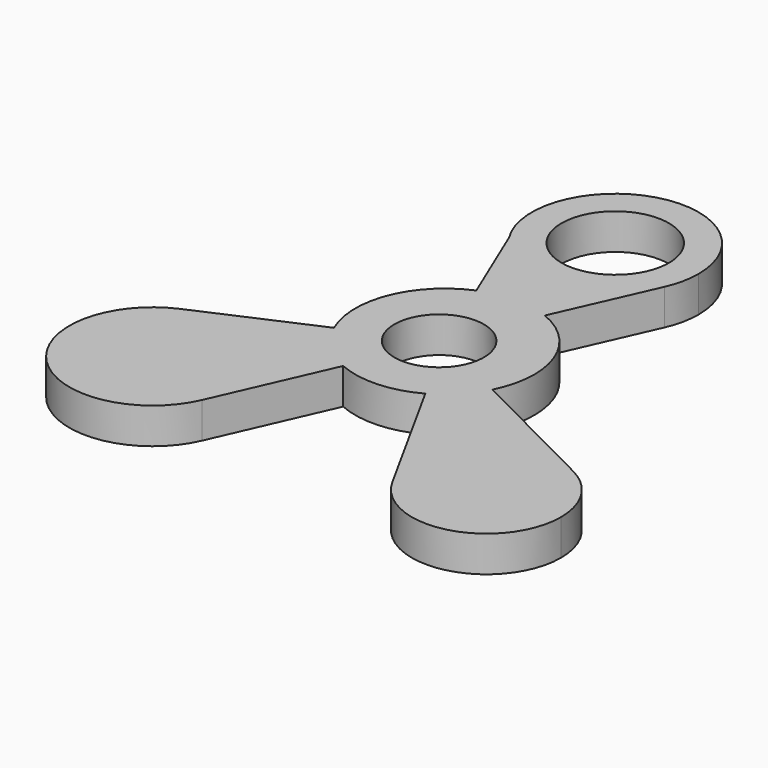
from build123d import *

# Parameters (mm, degrees)
F0_R     = 12.7
F1_DEPTH = 5.08
F3_DEPTH = 5.08
F5_DEPTH = 5.08
F7_DEPTH = 5.08
F8_D     = 15.24
F9_D     = 12.7


with BuildPart() as f1:
    # F0 (on Top) → F1 (new body)
    with BuildSketch(Plane.XY):
        Circle(F0_R)
    extrude(amount=F1_DEPTH)

    # F2 (on Top) → F3 (join)
    with BuildSketch(Plane.XY):
        with BuildLine():
            ThreePointArc((10.8174087007, 25.4269018523), (11.5752623309, 27.7701892875), (11.8315821556, 30.2196051925))
            ThreePointArc((11.8315821556, 30.2196051925), (-3.2728076401, 41.5895245615), (-10.0209587397, 23.9293967507))
            ThreePointArc((-10.0209587397, 23.9293967507), (0.8480645715, 18.4184559779), (10.8174087007, 25.4269018523))
        make_face()
        with BuildLine():
            ThreePointArc((10.8174087007, 25.4269018523), (0.8480645715, 18.4184559779), (-10.0209587397, 23.9293967507))
            Line((-10.0209587397, 23.9293967507), (-0.217736535, 0.5199406632))
            Line((-0.217736535, 0.5199406632), (10.8174087007, 25.4269018523))
        make_face()
    extrude(amount=F3_DEPTH)

    # F4 (on Top) → F5 (join)
    with BuildSketch(Plane.XY):
        with BuildLine():
            ThreePointArc((-12.2244191743, -27.7763577499), (-11.4774353607, -25.4519749313), (-11.2248354851, -23.0236146599))
            ThreePointArc((-11.2248354851, -23.0236146599), (-16.5763429957, -13.1421229656), (-27.7763577499, -12.2244191743))
            ThreePointArc((-27.7763577499, -12.2244191743), (-31.3666114242, -31.3666114242), (-12.2244191743, -27.7763577499))
        make_face()
        with BuildLine():
            ThreePointArc((-27.7763577499, -12.2244191743), (-16.5763429957, -13.1421229656), (-11.2248354851, -23.0236146599))
            ThreePointArc((-11.2248354851, -23.0236146599), (-11.4774353607, -25.4519749313), (-12.2244191743, -27.7763577499))
            Line((-12.2244191743, -27.7763577499), (0, 0))
            Line((0, 0), (-27.7763577499, -12.2244191743))
        make_face()
    extrude(amount=F5_DEPTH)

    # F6 (on Top) → F7 (join)
    with BuildSketch(Plane.XY):
        with BuildLine():
            ThreePointArc((16.5425266567, -29.9826324727), (28.4376217504, -35.1139976634), (36.3737546099, -24.874759838))
            ThreePointArc((36.3737546099, -24.874759838), (34.8057291344, -19.3339934072), (30.5667251163, -15.4366043497))
            ThreePointArc((30.5667251163, -15.4366043497), (18.1885027261, -17.5360015638), (16.5425266567, -29.9826324727))
        make_face()
        with BuildLine():
            ThreePointArc((16.5425266567, -29.9826324727), (18.1885027261, -17.5360015638), (30.5667251163, -15.4366043497))
            Line((30.5667251163, -15.4366043497), (0, 0))
            Line((0, 0), (16.5425266567, -29.9826324727))
        make_face()
    extrude(amount=F7_DEPTH)

    # F8 (through all)
    with Locations(Plane(origin=(0, 0, 0), x_dir=(1, 0, 0), z_dir=(0, 0, -1))):
        with Locations((0, -30.2196051925)):
            Hole(F8_D / 2)

    # F9 (through all)
    with Locations(Plane(origin=(0, 0, 0), x_dir=(1, 0, 0), z_dir=(0, 0, -1))):
        with Locations((-0.5756123574, 0.2878057712)):
            Hole(F9_D / 2)


solid = f1.part
